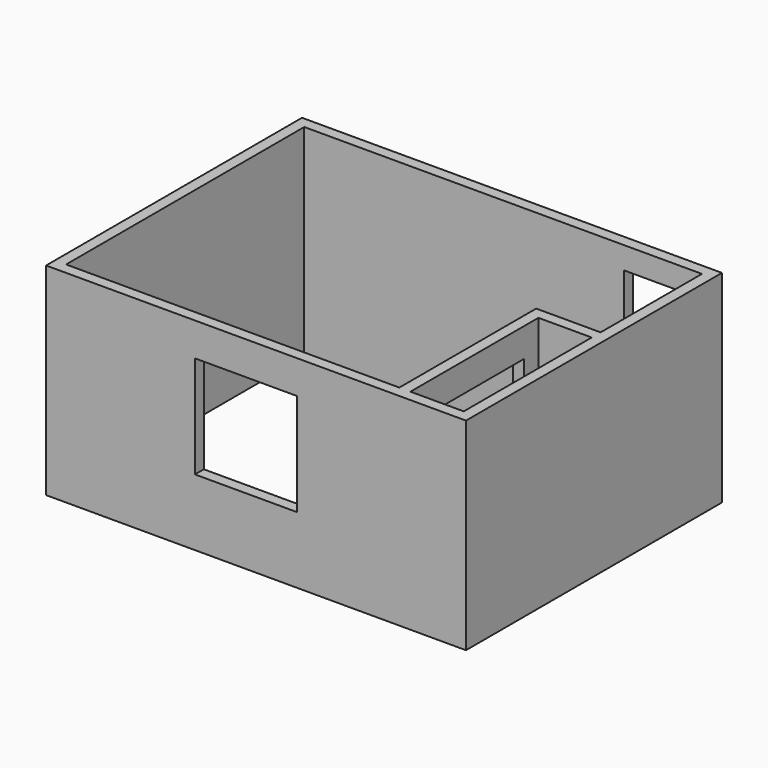
from build123d import *

# Parameters (mm, degrees)
F0_W     = 4800.6
F0_H     = 3657.6
F0_W_2   = 609.6
F0_H_2   = 1828.8
F1_DEPTH = 2311.4
F2_W     = 1168.4
F2_H     = 1168.4
F3_DEPTH = 127
F4_W     = 812.8
F4_H     = 2057.4
F5_DEPTH = 127
F6_W     = 1447.8
F6_H     = 1981.2
F7_DEPTH = 127


with BuildPart() as f1:
    # F0 (on Top) → F1 (new body)
    with BuildSketch(Plane.XY):
        with Locations((2273.3, 1701.8)):
            Rectangle(F0_W, F0_H)
        with Locations((4241.8, 914.4)):
            Rectangle(F0_W_2, F0_H_2, mode=Mode.SUBTRACT)
        Polygon((0, 0), (0, 3403.6), (4546.6, 3403.6), (4546.6, 1955.8), (3810, 1955.8), (3810, 0), align=None, mode=Mode.SUBTRACT)
    extrude(amount=F1_DEPTH)

    # F2 (on face) → F3 (cut, through all)
    with BuildSketch(Plane(origin=(0, 0, 0), x_dir=(-1, 0, 0), z_dir=(0, 1, 0))):
        with Locations((-2159, 1346.2)):
            Rectangle(F2_W, F2_H)
    extrude(amount=-F3_DEPTH, mode=Mode.SUBTRACT)

    # F4 (on face) → F5 (cut, through all)
    with BuildSketch(Plane.XZ.offset(-3403.6)):
        with Locations((4064, 1028.7)):
            Rectangle(F4_W, F4_H)
    extrude(amount=-F5_DEPTH, mode=Mode.SUBTRACT)

    # F6 (on face) → F7 (cut, through all)
    with BuildSketch(Plane(origin=(3810, 0, 0), x_dir=(0, -1, 0), z_dir=(-1, 0, 0))):
        with Locations((-901.7, 990.6)):
            Rectangle(F6_W, F6_H)
    extrude(amount=-F7_DEPTH, mode=Mode.SUBTRACT)


solid = f1.part
